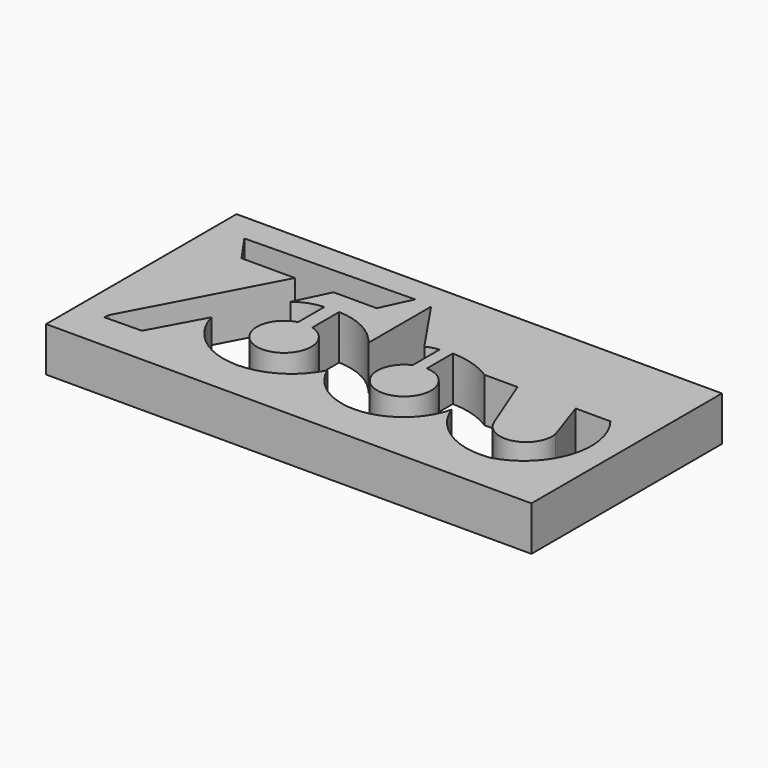
from build123d import *

# Parameters (mm, degrees)
F1_W     = 109.097563
F1_H     = 53.524394
F2_DEPTH = 10
F3_DEPTH = 20


with BuildPart() as f2:
    # F1 (on Top) → F2 (new body)
    with BuildSketch(Plane.XY):
        with Locations((5.012195, -4.353659)):
            Rectangle(F1_W, F1_H)
    extrude(amount=F2_DEPTH)

    # F0 (on Top) → F3 (cut)
    with BuildSketch(Plane.XY):
        with BuildLine():
            Line((-26.364613, 9.846089), (-43.052651, -21.557298))
            Line((-43.052651, -21.557298), (-43.142425, -22.709178))
            Line((-43.142425, -22.709178), (-34.816019, -22.603145))
            Line((-34.816019, -22.603145), (-28.477928, -10.9628))
            ThreePointArc((-28.477928, -10.9628), (-15.283365, -22.24516), (0, -14.010665))
            ThreePointArc((0, -14.010665), (13.880615, -22.568922), (26.360214, -12.072501))
            ThreePointArc((26.360214, -12.072501), (32.951882, -20.034667), (43.082863, -22.086348))
            ThreePointArc((43.082863, -22.086348), (53.397943, -12.183006), (50.914932, 1.899313))
            Line((50.914932, 1.899313), (43.082863, 1.899313))
            Line((43.082863, 1.899313), (46.387725, -7.834185))
            ThreePointArc((46.387725, -7.834185), (42.258111, -14.575967), (35.160247, -11.093775))
            Line((35.160247, -11.093775), (30.033628, 1.890382))
            Line((30.033628, 1.890382), (22.634767, 1.890382))
            ThreePointArc((22.634767, 1.890382), (18.111447, 3.978891), (13.189652, 4.752347))
            Line((13.189652, 4.752347), (13.189652, -2.555878))
            ThreePointArc((13.189652, -2.555878), (14.14297, -14.558516), (10.462902, -3.094257))
            Line((10.462902, -3.094257), (10.462902, 4.45175))
            ThreePointArc((10.462902, 4.45175), (9.026828, 4.192809), (7.681897, 3.626666))
            Line((7.681897, 3.626666), (-0.908288, 16.265618))
            Line((-0.908288, 16.265618), (-0.908288, -1.342427))
            ThreePointArc((-0.908288, -1.342427), (-5.880712, 2.929485), (-12.223111, 4.587256))
            Line((-12.223111, 4.587256), (-12.223111, -2.931808))
            ThreePointArc((-12.223111, -2.931808), (-13.936555, -14.910842), (-15.461971, -2.906415))
            Line((-15.461971, -2.906415), (-15.461971, 4.444678))
            ThreePointArc((-15.461971, 4.444678), (-18.558733, 3.847866), (-21.313343, 2.312209))
            Line((-21.313343, 2.312209), (-17.694002, 9.846089))
            Line((-17.694002, 9.846089), (-7.994306, 9.846089))
            Line((-7.994306, 9.846089), (-4.793087, 16.685043))
            Line((-4.793087, 16.685043), (-42.691354, 16.042456))
            Line((-42.691354, 16.042456), (-38.386457, 9.846089))
            Line((-38.386457, 9.846089), (-26.364613, 9.846089))
        make_face()
    extrude(amount=F3_DEPTH, mode=Mode.SUBTRACT)


solid = f2.part
